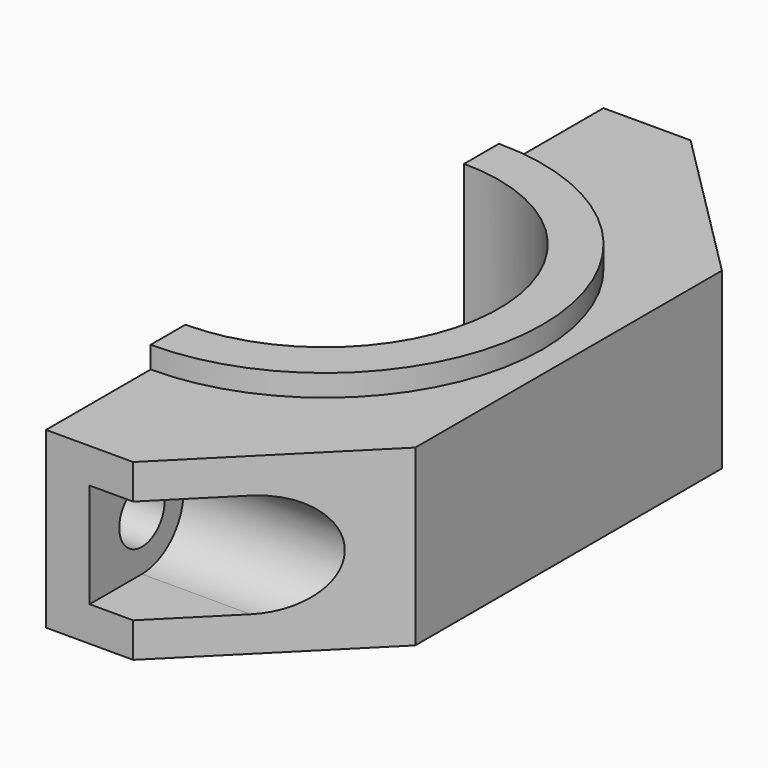
from build123d import *

# Parameters (mm, degrees)
PAD_DEPTH       = 12.5
PAD001_DEPTH    = 10
POCKET_DEPTH    = 199.738093
SKETCH003_R     = 3.25
POCKET001_DEPTH = 10


with BuildPart() as part:
    # Sketch → Pad (new body, symmetric)
    with BuildSketch(Plane.XY):
        with BuildLine():
            ThreePointArc((0, -20), (20, 0), (0, 20))
            Line((0, 25), (0, 20))
            ThreePointArc((0, -25), (25, 0), (0, 25))
            Line((0, -20), (0, -25))
        make_face()
    extrude(amount=PAD_DEPTH, both=True)

    # Sketch001 → Pad001 (join, symmetric)
    with BuildSketch(Plane.XY):
        with BuildLine():
            Line((0, 25), (0, 40))
            Line((0, 40), (10, 40))
            Line((10, 40), (28, 22))
            Line((28, 22), (28, -22))
            Line((28, -22), (10, -40))
            Line((10, -40), (0, -40))
            Line((0, -40), (0, -25))
            ThreePointArc((0, -25), (25, 0), (0, 25))
        make_face()
    extrude(amount=PAD001_DEPTH, both=True)

    # Sketch002 (on DatumPlane) → Pocket (cut, through all)
    with BuildSketch(Plane.YZ.offset(5)):
        with BuildLine():
            ThreePointArc((32.5, 6), (26.5, 0), (32.5, -6))
            Line((113.900581, -6), (32.5, -6))
            Line((113.900581, 6), (113.900581, -6))
            Line((32.5, 6), (113.900581, 6))
        make_face()
    pocket = extrude(amount=POCKET_DEPTH, mode=Mode.SUBTRACT)

    # Mirrored: Pocket across XZ
    add(pocket.mirror(Plane.XZ), mode=Mode.SUBTRACT)

    # Sketch003 (on DatumPlane) → Pocket001 (cut)
    with BuildSketch(Plane.YZ.offset(5)):
        with Locations((32.5, 0)):
            Circle(SKETCH003_R)
        with Locations((-32.5, 0)):
            Circle(SKETCH003_R)
    extrude(amount=-POCKET001_DEPTH, mode=Mode.SUBTRACT)


solid = part.part
